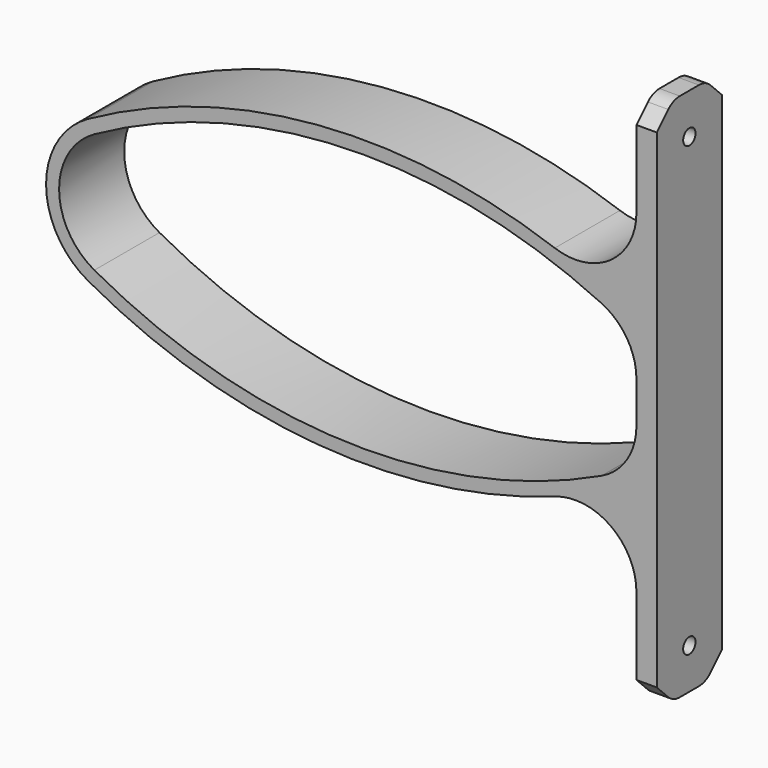
from build123d import *

# Parameters (mm, degrees)
F1_DEPTH       = 10
F3_D           = 3.7973
F3_CSINK_D     = 7.7978
F3_CSINK_ANGLE = 82
F4_SIZE        = 5
F5_R           = 5
F6_R           = 15


with BuildPart() as f1:
    # F0 (on Front) → F1 (new body, symmetric)
    with BuildSketch(Plane.XZ):
        with BuildLine():
            Line((0, -15), (0, 15))
            ThreePointArc((0, 15), (-2.4851818051, 16.4611506644), (-5, 17.8706822588))
            Line((-5, 17.8706822588), (-5, 14.2103387279))
            Line((-5, 14.2103387279), (-5, -14.2103387279))
            Line((-5, -14.2103387279), (-5, -17.8706822588))
            ThreePointArc((-5, -17.8706822588), (-2.4851818051, -16.4611506644), (0, -15))
        make_face()
        with BuildLine():
            Line((0, 15), (0, 65))
            Line((0, 65), (-5, 65))
            Line((-5, 65), (-5, 17.8706822588))
            ThreePointArc((-5, 17.8706822588), (-2.4851818051, 16.4611506644), (0, 15))
        make_face()
        with BuildLine():
            Line((0, -65), (0, -15))
            ThreePointArc((0, -15), (-2.4851818051, -16.4611506644), (-5, -17.8706822588))
            Line((-5, -17.8706822588), (-5, -65))
            Line((-5, -65), (0, -65))
        make_face()
        with BuildLine():
            Line((-5, 14.2103387279), (-5, 17.8706822588))
            ThreePointArc((-5, 17.8706822588), (-72.3928986571, 34.9994712149), (-139.6904967398, 17.5))
            ThreePointArc((-139.6904967398, 17.5), (-147.231014529, 10.1554893712), (-150, 0))
            ThreePointArc((-150, 0), (-147.231014529, -10.1554893712), (-139.6904967398, -17.5))
            ThreePointArc((-139.6904967398, -17.5), (-72.3928986571, -34.9994712149), (-5, -17.8706822588))
            Line((-5, -17.8706822588), (-5, -14.2103387279))
            ThreePointArc((-5, -14.2103387279), (-71.5057739854, -31.7990733195), (-138.1393945883, -14.7010569646))
            ThreePointArc((-138.1393945883, -14.7010569646), (-144.4738849633, -8.5312244428), (-146.8, 0))
            ThreePointArc((-146.8, 0), (-144.4738849633, 8.5312244428), (-138.1393945883, 14.7010569646))
            ThreePointArc((-138.1393945883, 14.7010569646), (-71.5057739854, 31.7990733195), (-5, 14.2103387279))
        make_face()
    extrude(amount=F1_DEPTH, both=True)

    # F3 (through all)
    with Locations(Plane(origin=(-5, 0, 0), x_dir=(0, -1, 0), z_dir=(-1, 0, 0))):
        with Locations((0, 55), (0, -55)):
            CounterSinkHole(F3_D / 2, F3_CSINK_D / 2, counter_sink_angle=F3_CSINK_ANGLE)

    # F4
    f4_edges = [f1.edges().sort_by_distance(p)[0] for p in [
        (-2.5, -10, 65),
        (-2.5, 10, 65),
        (-2.5, -10, -65),
        (-2.5, 10, -65),
    ]]
    chamfer(f4_edges, length=F4_SIZE)

    # F5
    f5_edges = [f1.edges().sort_by_distance(p)[0] for p in [
        (-2.5, -5, -65),
        (-2.5, 5, -65),
        (-2.5, -5, 65),
        (-2.5, 5, 65),
    ]]
    fillet(f5_edges, radius=F5_R)

    # F6
    f6_edges = [f1.edges().sort_by_distance(p)[0] for p in [
        (-5, 0, 14.210339),
        (-5, 0, 17.870682),
        (-5, 0, -17.870682),
        (-5, 0, -14.210339),
    ]]
    fillet(f6_edges, radius=F6_R)


solid = f1.part
